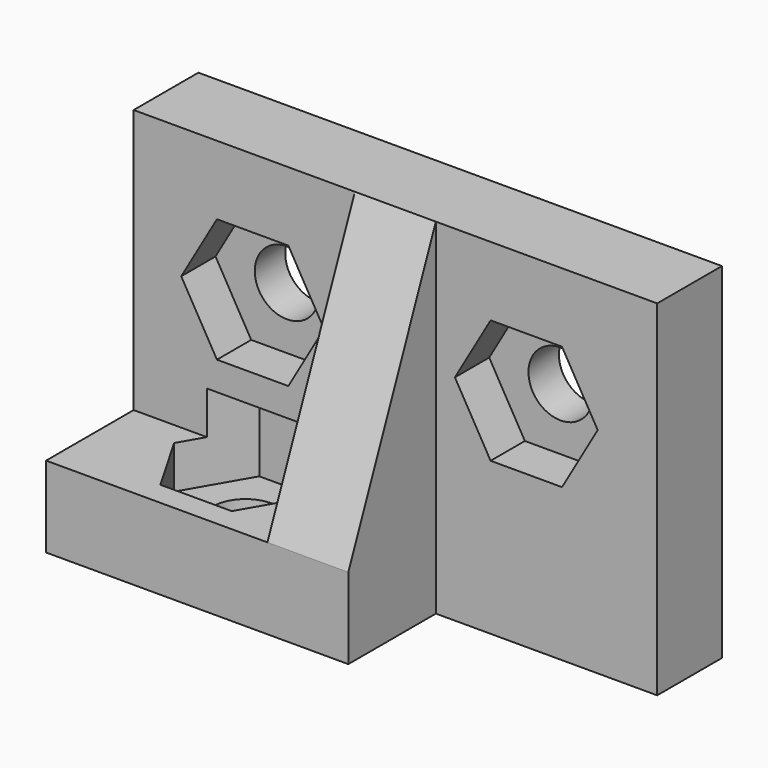
from build123d import *

# Parameters (mm, degrees)
EXTRUDE003_DEPTH  = 3.6
CYLINDER002_R     = 1.35
CYLINDER002_DEPTH = 3.4
EXTRUDE002_DEPTH  = 1.8
CYLINDER003_R     = 1.35
CYLINDER003_DEPTH = 3.4
EXTRUDE001_DEPTH  = 1.8
CYLINDER_R        = 1.35
CYLINDER_DEPTH    = 3.4
BOX_W             = 22
BOX_H             = 3.4
BOX_DEPTH         = 14.5
BOX001_W          = 12.7
BOX001_H          = 4.6
BOX001_DEPTH      = 3.4
EXTRUDE_DEPTH     = 3.4


with BuildPart() as extrude003:
    # Sketch003 → Extrude003 (new body)
    with BuildSketch(Plane(origin=(5.5, -1, 1.6), x_dir=(1, 0, 0), z_dir=(0, 0, 1))):
        Polygon((3, 0), (1.5, 2.598076), (-1.5, 2.598076), (-3, 0), (-1.5, -2.598076), (1.5, -2.598076), align=None)
    extrude(amount=EXTRUDE003_DEPTH)


with BuildPart() as hole03:
    # Cylinder002 → Cylinder002 (new body)
    with BuildSketch(Plane(origin=(5.5, -1, 0), x_dir=(0, 1, 0), z_dir=(0, 0, 1))):
        Circle(CYLINDER002_R)
    extrude(amount=CYLINDER002_DEPTH)

    # Fusion002: union Extrude003
    add(extrude003.part)


with BuildPart() as extrude002:
    # Sketch002 → Extrude002 (new body)
    with BuildSketch(Plane(origin=(16.5, 1.8, 9), x_dir=(1, 0, 0), z_dir=(0, -1, 0))):
        Polygon((3, 0), (1.5, 2.598076), (-1.5, 2.598076), (-3, 0), (-1.5, -2.598076), (1.5, -2.598076), align=None)
    extrude(amount=EXTRUDE002_DEPTH)


with BuildPart() as hole02:
    # Cylinder003 → Cylinder003 (new body)
    with BuildSketch(Plane(origin=(16.5, 3.4, 9), x_dir=(1, 0, 0), z_dir=(0, -1, 0))):
        Circle(CYLINDER003_R)
    extrude(amount=CYLINDER003_DEPTH)

    # Fusion001: union Extrude002
    add(extrude002.part)


with BuildPart() as extrude001:
    # Sketch001 → Extrude001 (new body)
    with BuildSketch(Plane(origin=(5, 1.8, 9), x_dir=(1, 0, 0), z_dir=(0, -1, 0))):
        Polygon((3, 0), (1.5, 2.598076), (-1.5, 2.598076), (-3, 0), (-1.5, -2.598076), (1.5, -2.598076), align=None)
    extrude(amount=EXTRUDE001_DEPTH)


with BuildPart() as hole01:
    # Cylinder → Cylinder (new body)
    with BuildSketch(Plane(origin=(5, 3.4, 9), x_dir=(1, 0, 0), z_dir=(0, -1, 0))):
        Circle(CYLINDER_R)
    extrude(amount=CYLINDER_DEPTH)

    # Fusion: union Extrude001
    add(extrude001.part)


with BuildPart() as cut001:
    # Box → Box (new body)
    with BuildSketch(Plane.XY):
        with Locations((11, 1.7)):
            Rectangle(BOX_W, BOX_H)
    extrude(amount=BOX_DEPTH)

    # Cut: cut Hole01
    add(hole01.part, mode=Mode.SUBTRACT)

    # Cut001: cut Hole02
    add(hole02.part, mode=Mode.SUBTRACT)


with BuildPart() as cut002:
    # Box001 → Box001 (new body)
    with BuildSketch(Plane(origin=(0, -4.6, 0), x_dir=(1, 0, 0), z_dir=(0, 0, 1))):
        with Locations((6.35, 2.3)):
            Rectangle(BOX001_W, BOX001_H)
    extrude(amount=BOX001_DEPTH)

    # Fusion003: union Cut001
    add(cut001.part)

    # Cut002: cut Hole03
    add(hole03.part, mode=Mode.SUBTRACT)


with BuildPart() as left_hand_bracket:
    # Sketch → Extrude (new body)
    with BuildSketch(Plane(origin=(0, 0, 3.4), x_dir=(0, 1, 0), z_dir=(1, 0, 0))):
        Polygon((0, 11.1), (0, 0), (-4.6, 0), align=None)
    extrude(amount=EXTRUDE_DEPTH)


with BuildPart() as left_hand_bracket_1:
    # Extrude placement: moved
    add(left_hand_bracket.part.moved(Location((9.3, 0, 0))))

    # Fusion004: union Cut002
    add(cut002.part)


solid = left_hand_bracket_1.part
